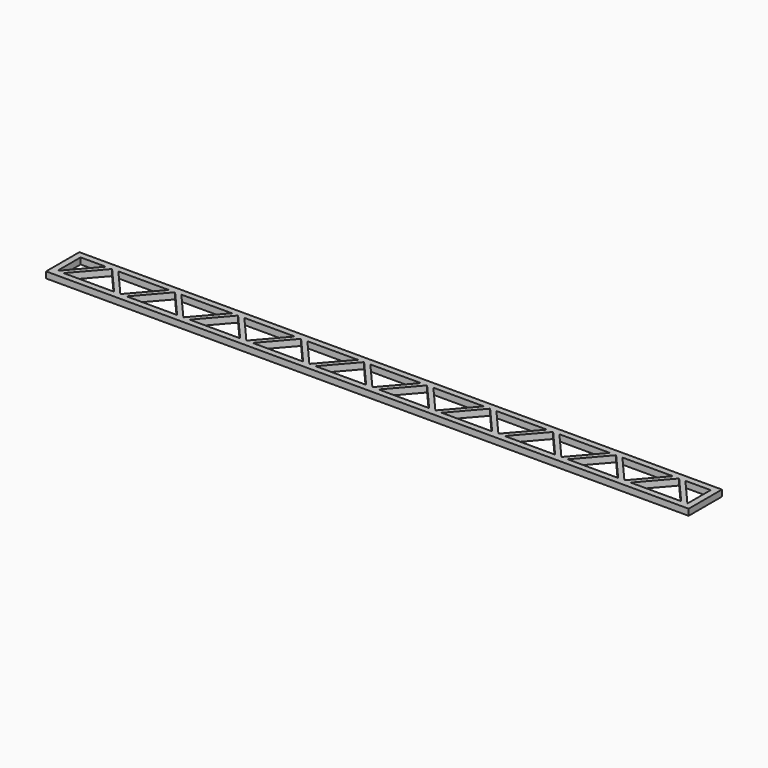
from build123d import *

# Parameters (mm, degrees)
F1_DEPTH = 1.27


with BuildPart() as f1:
    # F0 (on Top) → F1 (new body)
    with BuildSketch(Plane.XY):
        Polygon((19.046307, 4.947169), (-111.282837, 4.947169), (-111.282837, -3.485631), (19.046307, -3.485631), (19.046307, -2.215631), align=None)
        Polygon((-110.012837, -2.215631), (-110.012837, 3.677169), (-104.890304, 3.677169), align=None, mode=Mode.SUBTRACT)
        Polygon((-98.503923, -2.215631), (-108.742837, -2.215631), (-103.62338, 3.677169), align=None, mode=Mode.SUBTRACT)
        Polygon((-92.11139, 3.677169), (-97.233923, -2.215631), (-102.356456, 3.677169), align=None, mode=Mode.SUBTRACT)
        Polygon((-85.725008, -2.215631), (-95.963923, -2.215631), (-90.844466, 3.677169), align=None, mode=Mode.SUBTRACT)
        Polygon((-79.332476, 3.677169), (-84.455008, -2.215631), (-89.577541, 3.677169), align=None, mode=Mode.SUBTRACT)
        Polygon((-72.946094, -2.215631), (-83.185008, -2.215631), (-78.065551, 3.677169), align=None, mode=Mode.SUBTRACT)
        Polygon((-66.553561, 3.677169), (-71.676094, -2.215631), (-76.798627, 3.677169), align=None, mode=Mode.SUBTRACT)
        Polygon((-70.406094, -2.215631), (-65.286637, 3.677169), (-60.16718, -2.215631), align=None, mode=Mode.SUBTRACT)
        Polygon((-53.774647, 3.677169), (-58.89718, -2.215631), (-64.019712, 3.677169), align=None, mode=Mode.SUBTRACT)
        Polygon((-47.388265, -2.215631), (-57.62718, -2.215631), (-52.507722, 3.677169), align=None, mode=Mode.SUBTRACT)
        Polygon((-40.995732, 3.677169), (-46.118265, -2.215631), (-51.240798, 3.677169), align=None, mode=Mode.SUBTRACT)
        Polygon((-44.848265, -2.215631), (-39.728808, 3.677169), (-34.609351, -2.215631), align=None, mode=Mode.SUBTRACT)
        Polygon((-28.216818, 3.677169), (-33.339351, -2.215631), (-38.461884, 3.677169), align=None, mode=Mode.SUBTRACT)
        Polygon((-32.069351, -2.215631), (-26.949893, 3.677169), (-21.830436, -2.215631), align=None, mode=Mode.SUBTRACT)
        Polygon((-15.437903, 3.677169), (-20.560436, -2.215631), (-25.682969, 3.677169), align=None, mode=Mode.SUBTRACT)
        Polygon((-19.290436, -2.215631), (-14.170979, 3.677169), (-9.051522, -2.215631), align=None, mode=Mode.SUBTRACT)
        Polygon((-2.658989, 3.677169), (-7.781522, -2.215631), (-12.904055, 3.677169), align=None, mode=Mode.SUBTRACT)
        Polygon((3.727393, -2.215631), (-6.511522, -2.215631), (-1.392065, 3.677169), align=None, mode=Mode.SUBTRACT)
        Polygon((10.119926, 3.677169), (4.997393, -2.215631), (-0.12514, 3.677169), align=None, mode=Mode.SUBTRACT)
        Polygon((6.267393, -2.215631), (11.38685, 3.677169), (16.506307, -2.215631), align=None, mode=Mode.SUBTRACT)
        Polygon((17.776307, 3.677169), (17.776307, -2.215631), (12.653774, 3.677169), align=None, mode=Mode.SUBTRACT)
    extrude(amount=F1_DEPTH)


solid = f1.part
